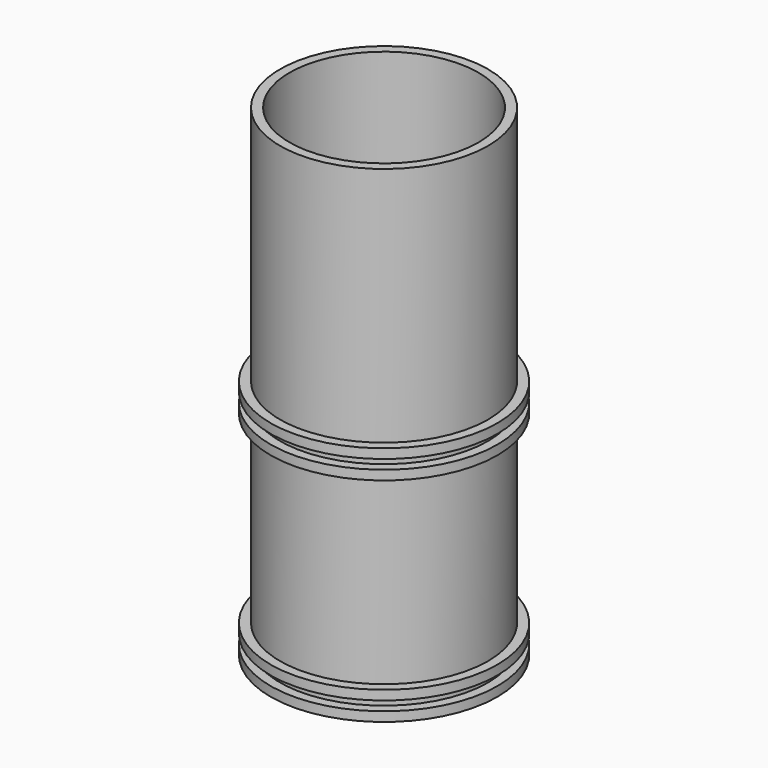
from build123d import *

# Parameters (mm, degrees)
F0_R          = 22
F0_R_2        = 20
F1_DEPTH      = 100
F1_DEPTH_BACK = 2
F0_R_3        = 24
F2_DEPTH      = 2
F3_START      = 2
F3_DEPTH      = 2
F4_START      = 43
F4_DEPTH      = 2
F5_START      = 47
F5_DEPTH      = 2


with BuildPart() as f1:
    # F0 (on Top) → F1 (new body, two sides)
    with BuildSketch(Plane.XY) as f1_sk:
        Circle(F0_R)
        Circle(F0_R_2, mode=Mode.SUBTRACT)
    extrude(amount=F1_DEPTH)
    extrude(f1_sk.sketch, amount=-F1_DEPTH_BACK)

    # F0 (on Top) → F2 (join)
    with BuildSketch(Plane.XY):
        Circle(F0_R_3)
        Circle(F0_R, mode=Mode.SUBTRACT)
    extrude(amount=-F2_DEPTH)

    # F0 (on Top) → F3 (join)
    with BuildSketch(Plane.XY.offset(F3_START)):
        Circle(F0_R_3)
        Circle(F0_R, mode=Mode.SUBTRACT)
    extrude(amount=F3_DEPTH)

    # F0 (on Top) → F4 (join)
    with BuildSketch(Plane.XY.offset(F4_START)):
        Circle(F0_R_3)
        Circle(F0_R, mode=Mode.SUBTRACT)
    extrude(amount=F4_DEPTH)

    # F0 (on Top) → F5 (join)
    with BuildSketch(Plane.XY.offset(F5_START)):
        Circle(F0_R_3)
        Circle(F0_R, mode=Mode.SUBTRACT)
    extrude(amount=F5_DEPTH)


solid = f1.part
